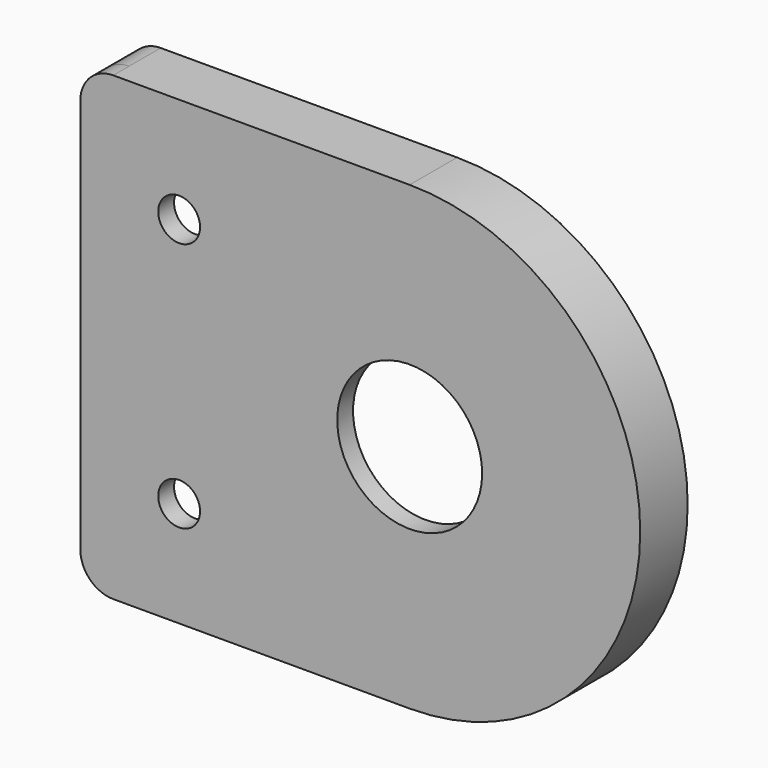
from build123d import *

# Parameters (mm, degrees)
F0_R     = 3.175
F0_R_2   = 11
F1_DEPTH = 3
F3_R     = 5
F5_DEPTH = 6


with BuildPart() as f1:
    # F0 (on Front) → F1 (new body)
    with BuildSketch(Plane.XZ):
        with BuildLine():
            Line((35, 35), (-15, 35))
            Line((-15, 35), (-15, -35))
            Line((-15, -35), (35, -35))
            ThreePointArc((35, -35), (70, 0), (35, 35))
        make_face()
        with Locations((0, -19)):
            Circle(F0_R, mode=Mode.SUBTRACT)
        with Locations((0, 19)):
            Circle(F0_R, mode=Mode.SUBTRACT)
        with Locations((35, 0)):
            Circle(F0_R_2, mode=Mode.SUBTRACT)
    extrude(amount=F1_DEPTH)

    # F2: F1 across plane


with BuildPart() as f1_1:
    add(f1.part)
    add(f1.part.mirror(Plane.XY))

    # F3
    f3_edges = [f1_1.edges().sort_by_distance(p)[0] for p in [
        (-15, -1.5, -35),
        (-15, -1.5, 35),
    ]]
    fillet(f3_edges, radius=F3_R)

    # F4 (on face) → F5 (join)
    with BuildSketch(Plane(origin=(0, 0, 0), x_dir=(-1, 0, 0), z_dir=(0, 1, 0))):
        with BuildLine():
            Line((-35, -35), (10, -35))
            ThreePointArc((10, -35), (13.5355339059, -33.5355339059), (15, -30))
            Line((15, -30), (15, 30))
            ThreePointArc((15, 30), (13.5355339059, 33.5355339059), (10, 35))
            Line((10, 35), (-35, 35))
            ThreePointArc((-35, 35), (-70, 0), (-35, -35))
        make_face()
        with BuildLine():
            Line((-35, 31), (11, 31))
            Line((11, 31), (11, -31))
            Line((11, -31), (-35, -31))
            ThreePointArc((-35, -31), (-66, 0), (-35, 31))
        make_face(mode=Mode.SUBTRACT)
    extrude(amount=F5_DEPTH)


solid = f1_1.part
